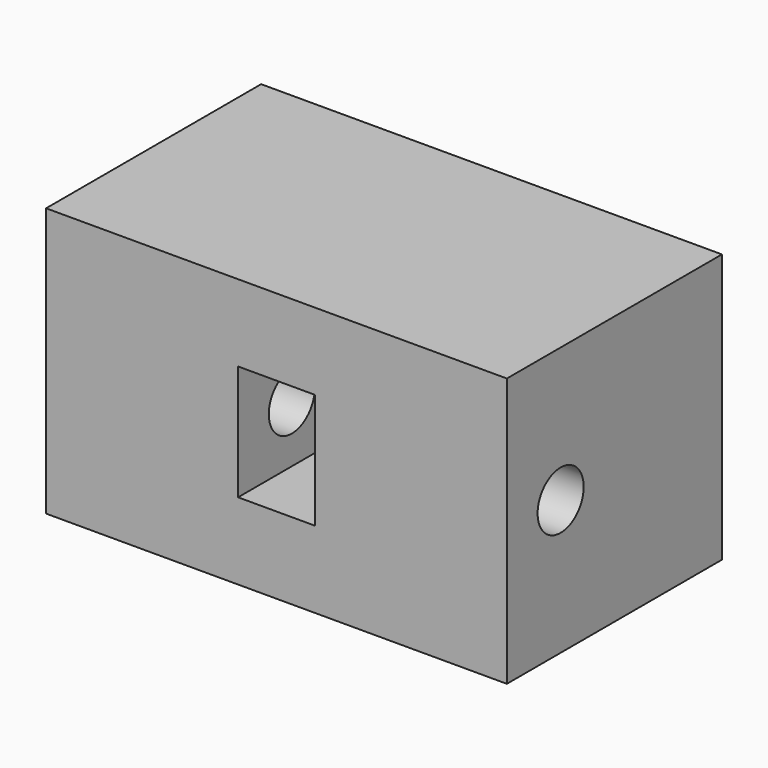
from build123d import *

# Parameters (mm, degrees)
SKETCH011_W      = 12
SKETCH011_H      = 7
EXTRUDE007_DEPTH = 7
SKETCH015_W      = 2
SKETCH015_H      = 3
POCKET002_DEPTH  = 3.5
SKETCH016_R      = 0.75
HOLE_DEPTH       = 12
HOLE_TIPS_R      = 0.75


with BuildPart() as part:
    # Sketch011 → Extrude007 (new body)
    with BuildSketch(Plane.XY):
        with Locations((-134, -113.5)):
            Rectangle(SKETCH011_W, SKETCH011_H)
    extrude(amount=EXTRUDE007_DEPTH)

    # Sketch015 (on Face3 of Extrude007) → Pocket002 (cut)
    with BuildSketch(Plane.XZ.offset(117)):
        with Locations((-134, 3.5)):
            Rectangle(SKETCH015_W, SKETCH015_H)
    extrude(amount=-POCKET002_DEPTH, mode=Mode.SUBTRACT)

    # Sketch016 (on Face3 of Pocket002) → Hole (cut)
    with BuildSketch(Plane.YZ.offset(-128)):
        with Locations((-115.249997, 3.5)):
            Circle(SKETCH016_R)
    extrude(amount=-HOLE_DEPTH, mode=Mode.SUBTRACT)

    # Hole tips → Hole tip 1 section 0
    with BuildSketch(Plane.YZ.offset(-140), mode=Mode.PRIVATE) as hole_tip_1_s0:
        with Locations((-115.249997, 3.5)):
            Circle(HOLE_TIPS_R)
    loft([hole_tip_1_s0.sketch, Vertex(-140.450645, -115.249997, 3.5)], mode=Mode.SUBTRACT)


solid = part.part
